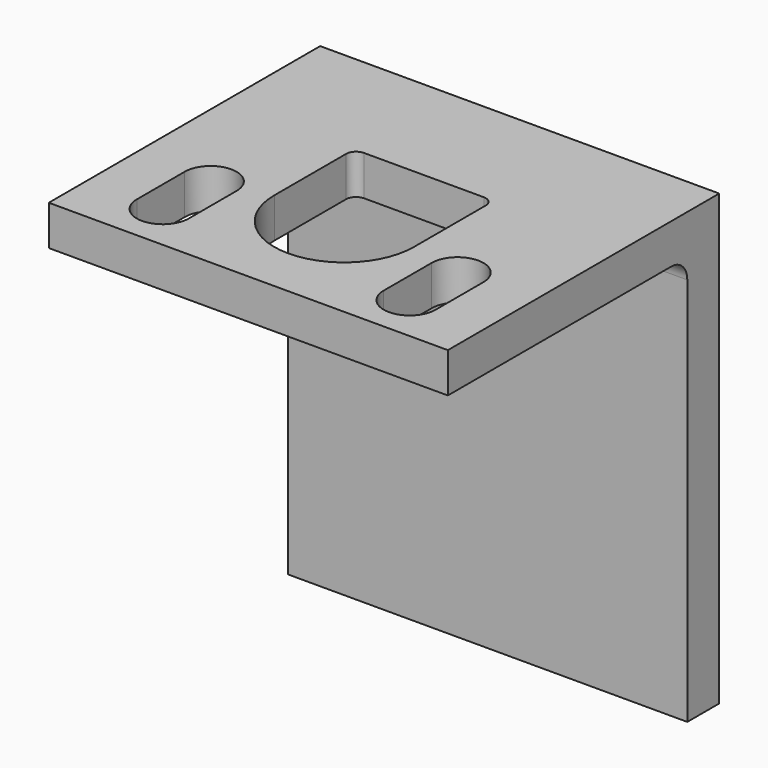
from build123d import *

# Parameters (mm, degrees)
SKETCH_W        = 40
SKETCH_H        = 45
PAD_DEPTH       = 4
SKETCH001_R     = 2.5
POCKET_DEPTH    = 4.001
SKETCH002_W     = 40
SKETCH002_H     = 4
PAD001_DEPTH    = 30
FILLET_R        = 2
POCKET001_DEPTH = 4.001
FILLET001_R     = 1
FILLET002_R     = 1


with BuildPart() as pad:
    # Sketch → Pad (new body)
    with BuildSketch(Plane.XZ):
        with Locations((20, 22.5)):
            Rectangle(SKETCH_W, SKETCH_H)
    extrude(amount=PAD_DEPTH)


with BuildPart() as pocket:
    # Pocket base: copy of Pad
    add(pad.part)

    # Sketch001 → Pocket (cut, through all)
    with BuildSketch(Plane.XZ.offset(4)):
        with Locations((10, 10)):
            Circle(SKETCH001_R)
        with Locations((30, 10)):
            Circle(SKETCH001_R)
        with Locations((10, 30)):
            Circle(SKETCH001_R)
        with Locations((30, 30)):
            Circle(SKETCH001_R)
    extrude(amount=-POCKET_DEPTH, mode=Mode.SUBTRACT)


with BuildPart() as pad001:
    # Pad001 base: copy of Pad
    add(pad.part)

    # Sketch002 → Pad001 (new body)
    with BuildSketch(Plane.XZ.offset(4)):
        with Locations((20, 43)):
            Rectangle(SKETCH002_W, SKETCH002_H)
    extrude(amount=PAD001_DEPTH)


with BuildPart() as fillet002:
    # Fusion base: copy of Pad
    add(pad.part)

    # Fusion: union Pad001
    add(pad001.part)

    # Fillet
    fillet_edges = [fillet002.edges().sort_by_distance(p)[0] for p in [
        (20, -4, 41),
    ]]
    fillet(fillet_edges, radius=FILLET_R)

    # Sketch003 → Pocket001 (cut, through all)
    with BuildSketch(Plane(origin=(0, 0, 41), x_dir=(1, 0, 0), z_dir=(0, 0, -1))):
        with BuildLine():
            ThreePointArc((27, 22), (20, 29), (13, 22))
            Line((13, 12), (13, 22))
            Line((27, 12), (13, 12))
            Line((27, 22), (27, 12))
        make_face()
        with BuildLine():
            ThreePointArc((34.9735, 29.25), (32.3735, 31.85), (29.7735, 29.25))
            Line((29.7735, 29.25), (29.7735, 23.25))
            ThreePointArc((29.7735, 23.25), (32.3735, 20.649999), (34.9735, 23.25))
            Line((34.9735, 29.25), (34.9735, 23.25))
        make_face()
        with BuildLine():
            ThreePointArc((10.2265, 29.250019), (7.626491, 31.85), (5.0265, 29.25))
            Line((5.0265, 29.25), (5.0265, 23.25))
            ThreePointArc((5.0265, 23.25), (7.62651, 20.65), (10.2265, 23.250019))
            Line((10.2265, 29.250019), (10.2265, 23.250019))
        make_face()
    extrude(amount=-POCKET001_DEPTH, mode=Mode.SUBTRACT)

    # Fillet001
    fillet001_edges = [fillet002.edges().sort_by_distance(p)[0] for p in [
        (13, -12, 43),
    ]]
    fillet(fillet001_edges, radius=FILLET001_R)

    # Fillet002
    fillet002_edges = [fillet002.edges().sort_by_distance(p)[0] for p in [
        (27, -12, 43),
    ]]
    fillet(fillet002_edges, radius=FILLET002_R)


solid = Compound([pocket.part, fillet002.part])
